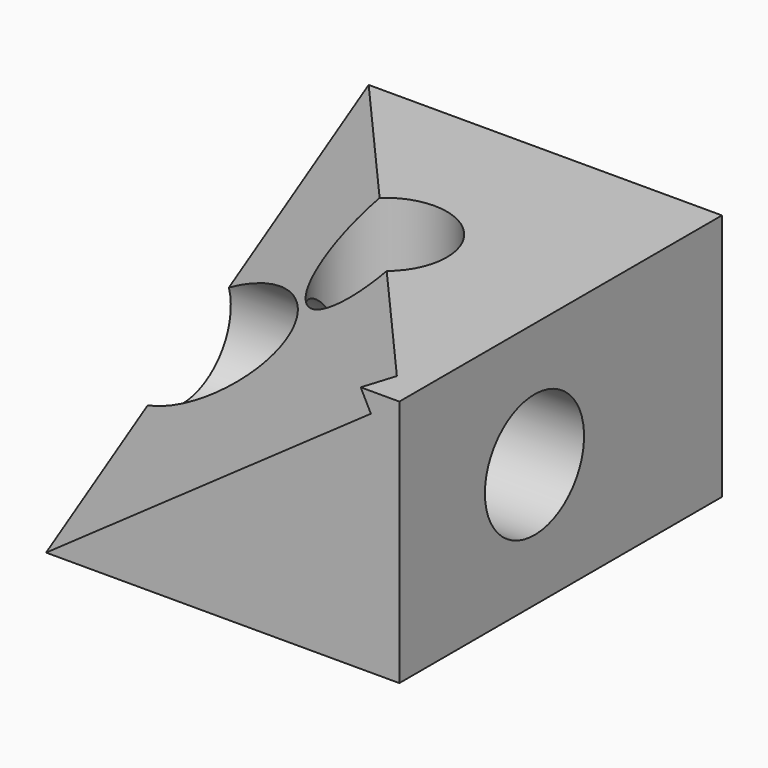
from build123d import *

# Parameters (mm, degrees)
F0_W     = 142.5278559327
F0_H     = 162.6823693514
F1_DEPTH = 100
F3_D     = 50
F5_D     = 50
F7_W     = 217.2406986356
F7_H     = 260.2855265141
F8_DEPTH = 100


with BuildPart() as f1:
    # F0 (on Top) → F1 (new body)
    with BuildSketch(Plane.XY):
        with Locations((3.5334713757, 13.1870955229)):
            Rectangle(F0_W, F0_H)
    extrude(amount=F1_DEPTH)

    # F3 (through all)
    with Locations(Plane.XY.offset(100)):
        with Locations((0, 18.059482798)):
            Hole(F3_D / 2)

    # F5 (through all)
    with Locations(Plane.YZ.offset(74.7973993421)):
        with Locations((0, 49.8763620853)):
            Hole(F5_D / 2)

    # F7 (on 3pt) → F8 (cut)
    with BuildSketch(Plane(origin=(-33.5460278912, -29.390052834, 47.8124343039), x_dir=(0.8583543186, -0.2686733101, 0.4370841066), z_dir=(-0.5130573689, -0.449495339, 0.7312496676))):
        with Locations((4.2272098362, 30.3416997194)):
            Rectangle(F7_W, F7_H)
    extrude(amount=F8_DEPTH, mode=Mode.SUBTRACT)


solid = f1.part
